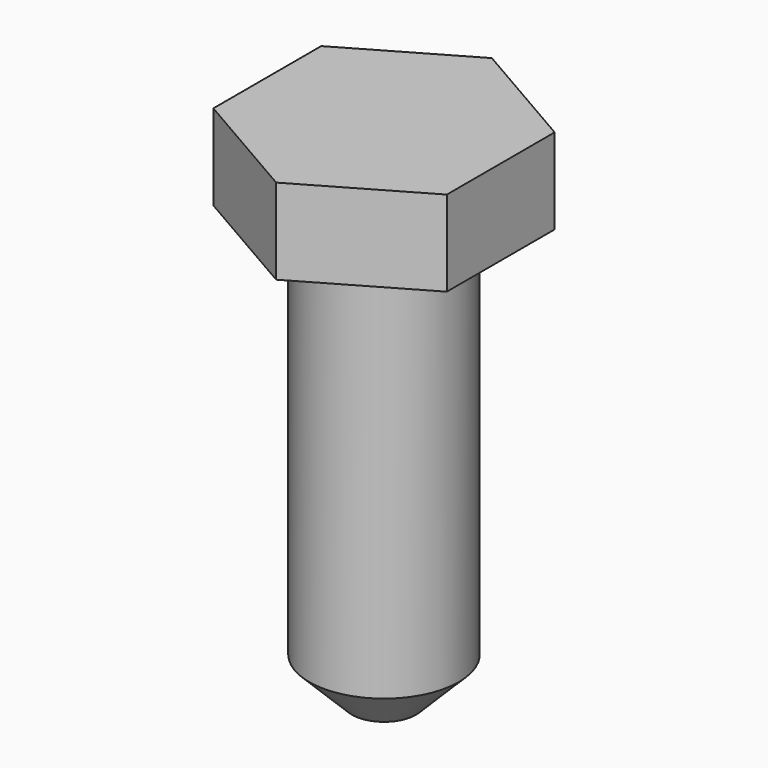
from build123d import *

# Parameters (mm, degrees)
F0_R     = 8.75
F1_DEPTH = 60
F2_DEPTH = 10
F3_SIZE  = 5


with BuildPart() as f1:
    # F0 (on Top) → F1 (new body)
    with BuildSketch(Plane.XY):
        Circle(F0_R)
    extrude(amount=-F1_DEPTH)

    # F0 (on Top) → F2 (join)
    with BuildSketch(Plane.XY):
        Polygon((13.656054, -7.884326), (13.656054, 7.884326), (0, 15.768653), (-13.656054, 7.884326), (-13.656054, -7.884326), (0, -15.768653), align=None)
        Circle(F0_R, mode=Mode.SUBTRACT)
        Circle(F0_R)
    extrude(amount=-F2_DEPTH)

    # F3
    f3_edges = [f1.edges().sort_by_distance(p)[0] for p in [
        (-8.75, 0, -60),
    ]]
    chamfer(f3_edges, length=F3_SIZE)


solid = f1.part
